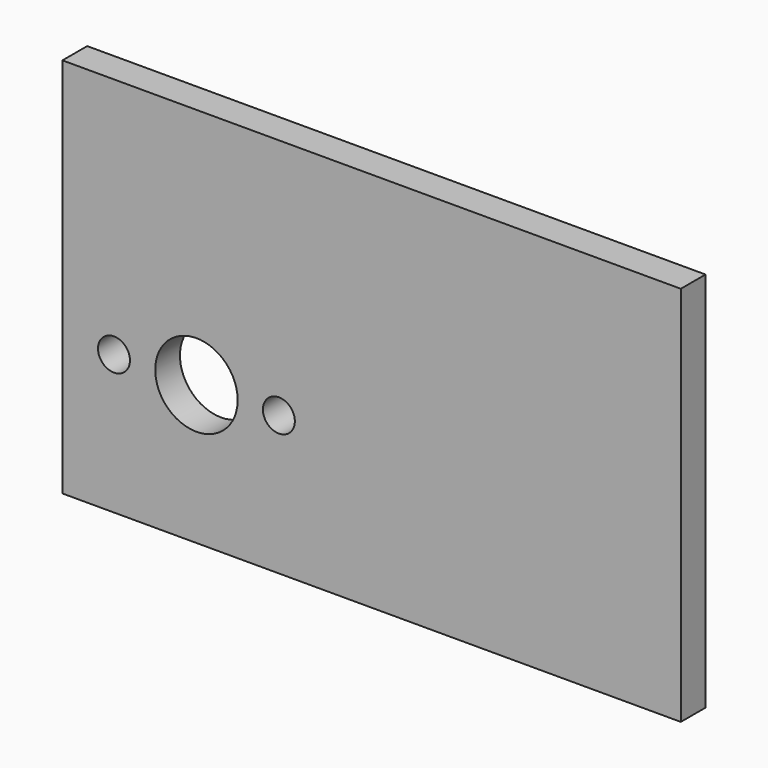
from build123d import *

# Parameters (mm, degrees)
F0_W     = 60
F0_H     = 37
F0_R     = 1.55
F0_R_2   = 4
F1_DEPTH = 3


with BuildPart() as f1:
    # F0 (on Front) → F1 (new body)
    with BuildSketch(Plane.XZ):
        with Locations((17, 5)):
            Rectangle(F0_W, F0_H)
        with Locations((-8, 0)):
            Circle(F0_R, mode=Mode.SUBTRACT)
        Circle(F0_R_2, mode=Mode.SUBTRACT)
        with Locations((8, 0)):
            Circle(F0_R, mode=Mode.SUBTRACT)
    extrude(amount=F1_DEPTH)


solid = f1.part
